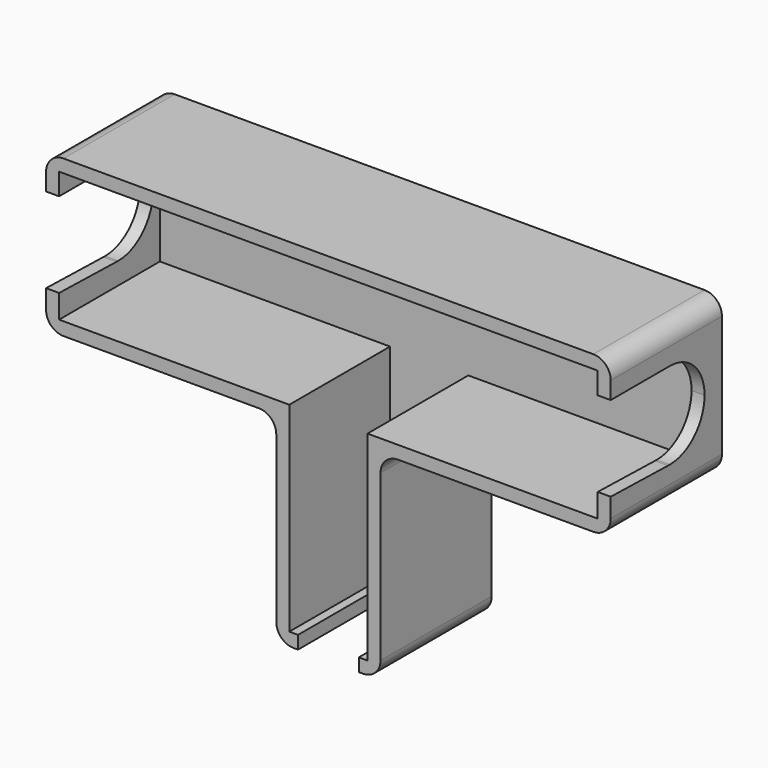
from build123d import *

# Parameters (mm, degrees)
F1_DEPTH = 16
F2_T     = -1.5
F4_DEPTH = 100
F6_DEPTH = 25
F7_R     = 2


with BuildPart() as f1:
    # F0 (on Front) → F1 (new body)
    with BuildSketch(Plane.XZ):
        Polygon((32.5, -9), (32.5, 9), (-32.5, 9), (-32.5, -9), (-6, -9), (-6, -32), (6, -32), (6, -9), align=None)
    extrude(amount=F1_DEPTH)

    # F2
    f2_openings = [f1.faces().sort_by_distance(p)[0] for p in [
        (0, -16, -3.912863),
    ]]
    offset(amount=F2_T, openings=f2_openings, kind=Kind.INTERSECTION)

    # F3 (on face) → F4 (cut)
    with BuildSketch(Plane.YZ.offset(32.5)):
        with BuildLine():
            ThreePointArc((-7.5, -5), (-3.9644660941, -3.5355339059), (-2.5, 0))
            ThreePointArc((-2.5, 0), (-3.9336885694, 3.5044860935), (-7.4125691119, 4.9992355255))
            Line((-7.4125691119, 4.9992355255), (-7.5874308881, 4.9992355255))
            ThreePointArc((-7.5874308881, 4.9992355255), (-12.4994020552, 0.0773245797), (-7.7419960904, -4.9941403557))
            Line((-7.7419960904, -4.9941403557), (-7.5, -5))
        make_face()
        with BuildLine():
            Line((-7.5874308881, 4.9992355255), (-7.4125691119, 4.9992355255))
            ThreePointArc((-7.4125691119, 4.9992355255), (-7.5, 5), (-7.5874308881, 4.9992355255))
        make_face()
        with BuildLine():
            ThreePointArc((-7.7419960904, -4.9941403557), (-7.6210335111, -4.9985348743), (-7.5, -5))
            Line((-7.5, -5), (-7.7419960904, -4.9941403557))
        make_face()
        with BuildLine():
            ThreePointArc((-7.7419960904, -4.9941403557), (-12.4994020552, 0.0773245797), (-7.5874308881, 4.9992355255))
            Line((-7.5874308881, 4.9992355255), (-16, 4.9992355255))
            Line((-16, 4.9992355255), (-16, -4.7941827215))
            Line((-16, -4.7941827215), (-7.7419960904, -4.9941403557))
        make_face()
    extrude(amount=-F4_DEPTH, mode=Mode.SUBTRACT)

    # F5 (on face) → F6 (cut)
    with BuildSketch(Plane(origin=(0, 0, -32), x_dir=(1, 0, 0), z_dir=(0, 0, -1))):
        with BuildLine():
            ThreePointArc((-3.5, 6), (0, 2.5), (3.5, 6))
            ThreePointArc((3.5, 6), (0, 9.5), (-3.5, 6))
        make_face()
        with BuildLine():
            ThreePointArc((-3.5, 6), (0, 9.5), (3.5, 6))
            Line((3.5, 6), (3.5, 16))
            Line((3.5, 16), (-3.5, 16))
            Line((-3.5, 16), (-3.5, 6))
        make_face()
    extrude(amount=-F6_DEPTH, mode=Mode.SUBTRACT)

    # F7
    f7_edges = [f1.edges().sort_by_distance(p)[0] for p in [
        (-32.5, -8, -9),
        (-6, -8, -9),
        (-6, -8, -32),
        (6, -8, -32),
        (6, -8, -9),
        (32.5, -8, -9),
        (32.5, -8, 9),
        (-32.5, -8, 9),
    ]]
    fillet(f7_edges, radius=F7_R)


solid = f1.part
